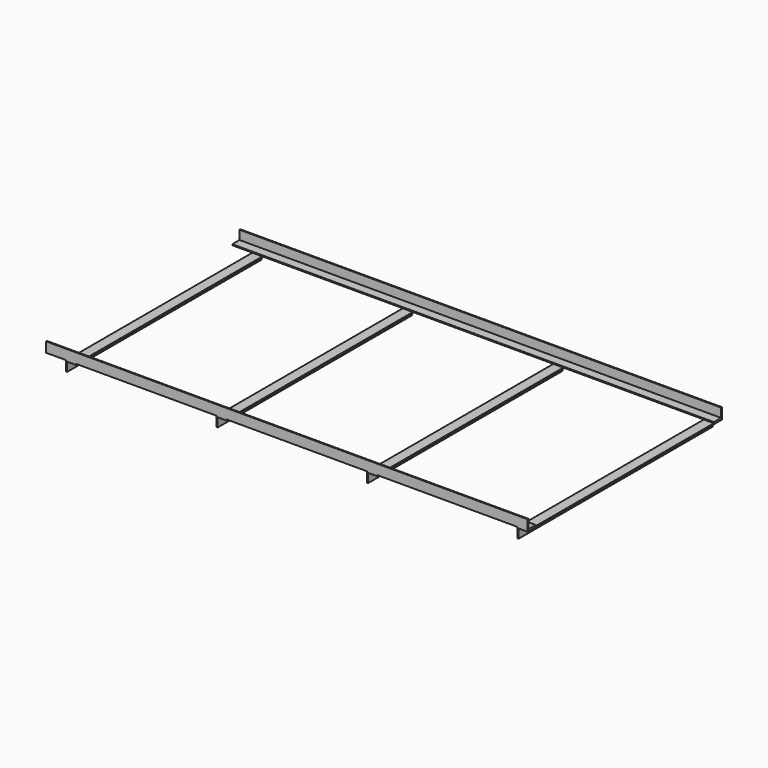
from build123d import *

# Parameters (mm, degrees)
F1_DEPTH = 2438.4
F3_DEPTH = 1229.2


with BuildPart() as f1:
    # F0 (on Right) → F1 (new body)
    with BuildSketch(Plane.YZ):
        Polygon((0, 50.8), (0, 0), (50.8, 0), (50.8, 5), (5, 5), (5, 50.8), align=None)
        Polygon((1229.2, 0), (1229.2, 50.8), (1224.2, 50.8), (1224.2, 5), (1178.4, 5), (1178.4, 0), align=None)
    extrude(amount=F1_DEPTH)

    # F2 (on Front) → F3 (join, through all)
    with BuildSketch(Plane.XZ):
        Polygon((152.4, 0), (101.6, 0), (101.6, -50.8), (106.6, -50.8), (106.6, -5), (152.4, -5), align=None)
        Polygon((868.6, -50.8), (868.6, -5), (914.4, -5), (914.4, 0), (863.6, 0), (863.6, -50.8), align=None)
        Polygon((1630.6, -50.8), (1630.6, -5), (1676.4, -5), (1676.4, 0), (1625.6, 0), (1625.6, -50.8), align=None)
        Polygon((2392.6, -50.8), (2392.6, -5), (2438.4, -5), (2438.4, 0), (2387.6, 0), (2387.6, -50.8), align=None)
    extrude(amount=-F3_DEPTH)


solid = f1.part
